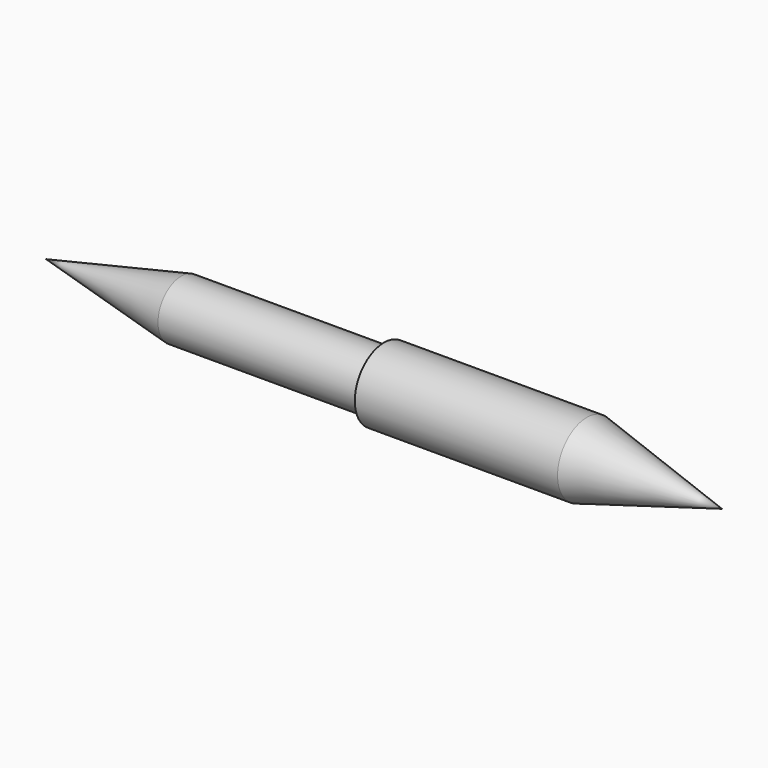
from build123d import *


with BuildPart() as part:
    # Sketch → Revolution (revolve)
    with BuildSketch(Plane.XZ):
        Polygon((-15, 2.15), (0, 2.15), (0, 2.7), (15, 2.7), (25, 0), (-25, 0), align=None)
    revolve(axis=Axis((0, 0, 0), (1, 0, 0)))


solid = part.part
